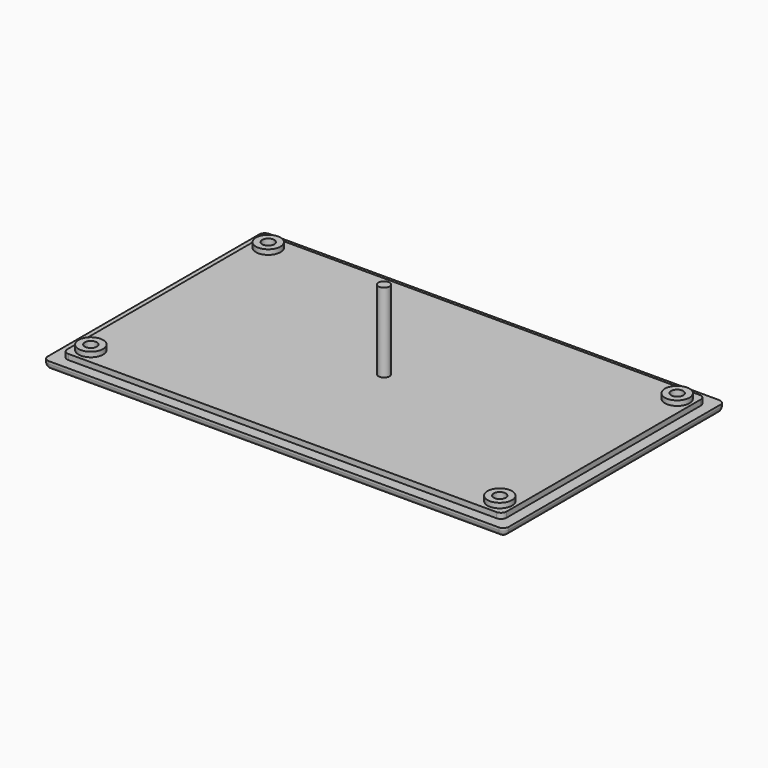
from build123d import *

# Parameters (mm, degrees)
CYLINDER025_R     = 1
CYLINDER025_DEPTH = 15
CYLINDER022_R     = 2.25
CYLINDER022_DEPTH = 0.9
CYLINDER023_R     = 2.25
CYLINDER023_DEPTH = 0.9
CYLINDER024_R     = 2.25
CYLINDER024_DEPTH = 0.9
CYLINDER021_R     = 2.25
CYLINDER021_DEPTH = 0.9
BOX005_W          = 84.5
BOX005_H          = 50.5
BOX005_DEPTH      = 1.5
BOX004_W          = 80.5
BOX004_H          = 46.5
BOX004_DEPTH      = 1
FILLET001_R       = 1.01


with BuildPart() as hack:
    # Cylinder025 → Cylinder025 (new body)
    with BuildSketch(Plane.XY.offset(-13)):
        Circle(CYLINDER025_R)
    extrude(amount=CYLINDER025_DEPTH)


with BuildPart() as bottom_screw_hole_a:
    # Sketch → Revolution (revolve)
    with BuildSketch(Plane.XZ):
        Polygon((0, 0), (2, 0), (2, 0.2), (1.1, 1.1), (1.1, 3.4), (0, 3.4), align=None)
    revolve(axis=Axis((0, 0, 0), (0, 0, 1)))


with BuildPart() as bottom_screw_hole_a_1:
    # Body placement: moved
    add(bottom_screw_hole_a.part.moved(Location((-37.47, -20.32, 0))))


with BuildPart() as bottom_screw_hole_b:
    # Body001 base: copy of bottom_screw_hole_a
    add(bottom_screw_hole_a_1.part)


with BuildPart() as bottom_screw_hole_b_1:
    # Clone placement: moved
    add(bottom_screw_hole_b.part.moved(Location((37.47, 20.32, 0))))


with BuildPart() as bottom_screw_hole_b_2:
    # Body001 placement: moved
    add(bottom_screw_hole_b_1.part.moved(Location((-37.47, 20.32, 0))))


with BuildPart() as bottom_screw_hole_c:
    # Body002 base: copy of bottom_screw_hole_a
    add(bottom_screw_hole_a_1.part)


with BuildPart() as bottom_screw_hole_c_1:
    # Clone001 placement: moved
    add(bottom_screw_hole_c.part.moved(Location((37.47, 20.32, 0))))


with BuildPart() as bottom_screw_hole_c_2:
    # Body002 placement: moved
    add(bottom_screw_hole_c_1.part.moved(Location((37.47, 20.32, 0))))


with BuildPart() as bottom_screw_hole_d:
    # Body003 base: copy of bottom_screw_hole_a
    add(bottom_screw_hole_a_1.part)


with BuildPart() as bottom_screw_hole_d_1:
    # Clone002 placement: moved
    add(bottom_screw_hole_d.part.moved(Location((37.47, 20.32, 0))))


with BuildPart() as bottom_screw_hole_d_2:
    # Body003 placement: moved
    add(bottom_screw_hole_d_1.part.moved(Location((37.47, -20.32, 0))))


with BuildPart() as bottom_screw_holes:
    # Fusion016 base: copy of bottom_screw_hole_a
    add(bottom_screw_hole_a_1.part)

    # Fusion016: union bottom_screw_hole_b, bottom_screw_hole_c, bottom_screw_hole_d
    add(bottom_screw_hole_b_2.part)
    add(bottom_screw_hole_c_2.part)
    add(bottom_screw_hole_d_2.part)


with BuildPart() as screw_column_b:
    # Cylinder022 → Cylinder022 (new body)
    with BuildSketch(Plane(origin=(-37.47, -20.32, 0), x_dir=(1, 0, 0), z_dir=(0, 0, 1))):
        Circle(CYLINDER022_R)
    extrude(amount=CYLINDER022_DEPTH)


with BuildPart() as screw_column_c:
    # Cylinder023 → Cylinder023 (new body)
    with BuildSketch(Plane(origin=(37.47, 20.32, 0), x_dir=(1, 0, 0), z_dir=(0, 0, 1))):
        Circle(CYLINDER023_R)
    extrude(amount=CYLINDER023_DEPTH)


with BuildPart() as screw_column_d:
    # Cylinder024 → Cylinder024 (new body)
    with BuildSketch(Plane(origin=(37.47, -20.32, 0), x_dir=(1, 0, 0), z_dir=(0, 0, 1))):
        Circle(CYLINDER024_R)
    extrude(amount=CYLINDER024_DEPTH)


with BuildPart() as screw_columns:
    # Cylinder021 → Cylinder021 (new body)
    with BuildSketch(Plane(origin=(-37.47, 20.32, 0), x_dir=(1, 0, 0), z_dir=(0, 0, 1))):
        Circle(CYLINDER021_R)
    extrude(amount=CYLINDER021_DEPTH)

    # Fusion011: union screw_column_b, screw_column_c, screw_column_d
    add(screw_column_b.part)
    add(screw_column_c.part)
    add(screw_column_d.part)


with BuildPart() as screw_columns_1:
    # Fusion011 placement: moved
    add(screw_columns.part.moved(Location((0, 0, 2.5))))


with BuildPart() as external_bottom:
    # Box005 → Box005 (new body)
    with BuildSketch(Plane(origin=(-2, -2, 0), x_dir=(1, 0, 0), z_dir=(0, 0, 1))):
        with Locations((42.25, 25.25)):
            Rectangle(BOX005_W, BOX005_H)
    extrude(amount=BOX005_DEPTH)


with BuildPart() as obj1:
    # Box004 → Box004 (new body)
    with BuildSketch(Plane.XY.offset(1.5)):
        with Locations((40.25, 23.25)):
            Rectangle(BOX004_W, BOX004_H)
    extrude(amount=BOX004_DEPTH)

    # Fusion013: union external_bottom
    add(external_bottom.part)


with BuildPart() as obj1_1:
    # Fusion013 placement: moved
    add(obj1.part.moved(Location((-40.25, -23.25, 0))))

    # Fusion014: union screw_columns
    add(screw_columns_1.part)

    # Cut014: cut bottom_screw_holes
    add(bottom_screw_holes.part, mode=Mode.SUBTRACT)

    # Fillet001
    fillet001_edges = [obj1_1.edges().sort_by_distance(p)[0] for p in [
        (-42.25, -25.25, 0.75),
        (-42.25, 25.25, 0.75),
        (-42.25, 0, 0),
        (0, -25.25, 0),
        (42.25, -25.25, 0.75),
        (0, 25.25, 0),
        (42.25, 25.25, 0.75),
        (42.25, 0, 0),
        (-40.25, -23.25, 2),
        (-40.25, 23.25, 2),
        (40.25, -23.25, 2),
        (40.25, 23.25, 2),
    ]]
    fillet(fillet001_edges, radius=FILLET001_R)


with BuildPart() as obj1_2:
    # Fillet001 placement: moved
    add(obj1_1.part.moved(Location((0, 0, -15))))

    # Fusion017: union hack
    add(hack.part)


solid = obj1_2.part
